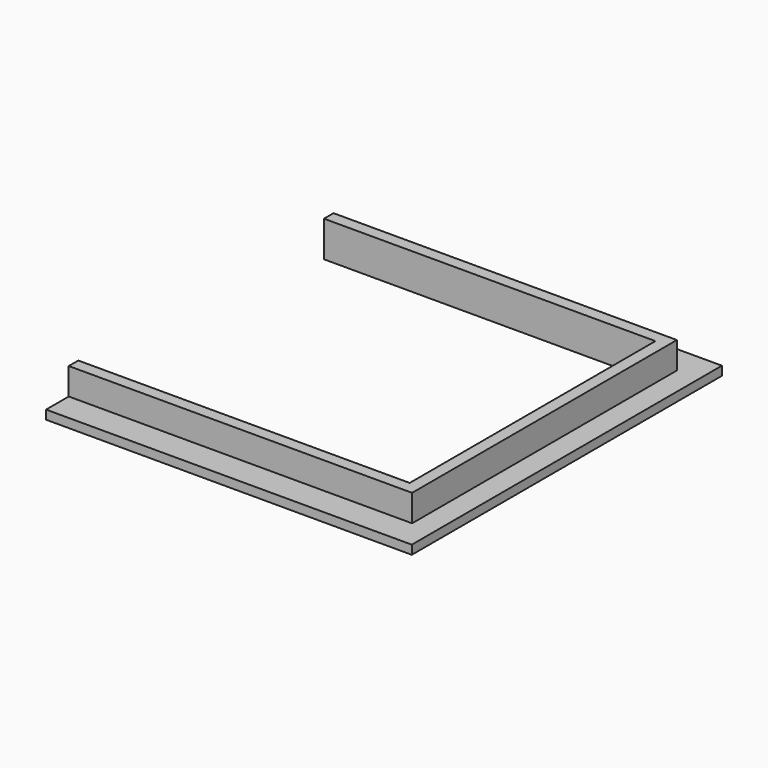
from build123d import *

# Parameters (mm, degrees)
F1_DEPTH = 1.5
F2_DEPTH = 6


with BuildPart() as f1:
    # F0 (on Top) → F1 (new body)
    with BuildSketch(Plane.XY):
        Polygon((31.25, -27.75), (-26.318803, -27.75), (-26.318803, -32.5), (35, -32.5), (35, 32.5), (-26.318803, 32.5), (-26.318803, 27.75), (31.25, 27.75), align=None)
        Polygon((29.25, 25.75), (29.25, -25.75), (-26.318803, -25.75), (-26.318803, -27.75), (31.25, -27.75), (31.25, 27.75), (-26.318803, 27.75), (-26.318803, 25.75), align=None)
    extrude(amount=F1_DEPTH)

    # F0 (on Top) → F2 (join)
    with BuildSketch(Plane.XY):
        Polygon((29.25, 25.75), (29.25, -25.75), (-26.318803, -25.75), (-26.318803, -27.75), (31.25, -27.75), (31.25, 27.75), (-26.318803, 27.75), (-26.318803, 25.75), align=None)
    extrude(amount=F2_DEPTH)


solid = f1.part
